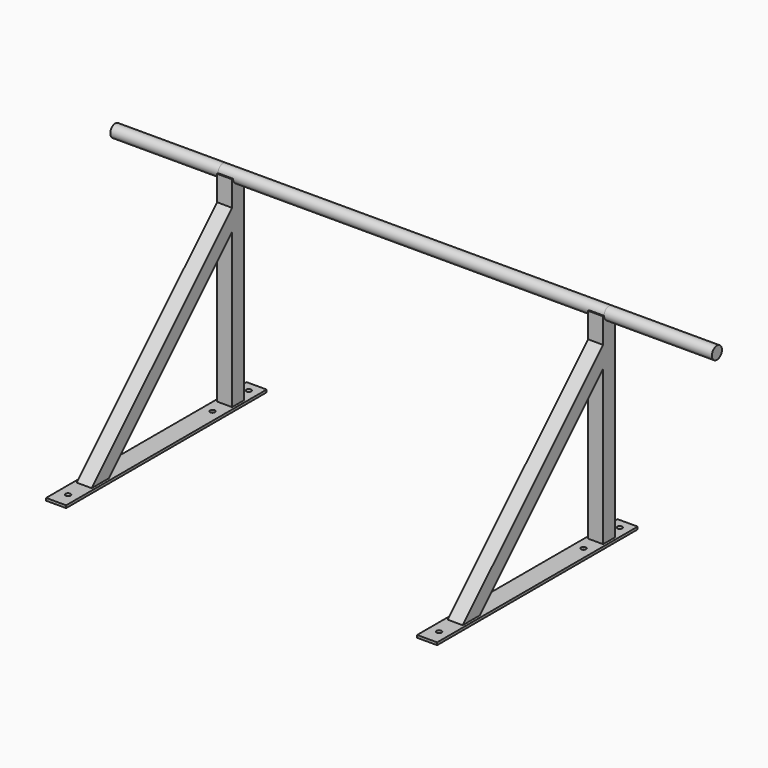
from build123d import *

# Parameters (mm, degrees)
F0_W      = 40
F0_H      = 500
F1_DEPTH  = 5
F2_W      = 30
F2_H      = 30
F3_DEPTH  = 400
F4_R      = 5
F5_DEPTH  = 25
F4_W      = 30
F4_H      = 30
F6_DEPTH  = 400
F2_R      = 5
F7_DEPTH  = 25
F9_DEPTH  = 30
F11_DEPTH = 30
F12_R     = 12.5
F13_DEPTH = 770
F14_DEPTH = 215
F15_DEPTH = 215


with BuildPart() as f1:
    # F0 (on Top) → F1 (new body)
    with BuildSketch(Plane.XY):
        with Locations((-370, 0)):
            Rectangle(F0_W, F0_H)
    extrude(amount=F1_DEPTH)

    # F2 (on face) → F3 (join)
    with BuildSketch(Plane.XY.offset(5)):
        with Locations((-370, 185)):
            Rectangle(F2_W, F2_H)
    extrude(amount=F3_DEPTH)

    # F2 (on face) → F7 (cut)
    with BuildSketch(Plane.XY.offset(5)):
        with Locations((-370, 140)):
            Circle(F2_R)
        with Locations((-370, 230)):
            Circle(F2_R)
        with Locations((-370, -220)):
            Circle(F2_R)
    extrude(amount=-F7_DEPTH, mode=Mode.SUBTRACT)

    # F8 (on face) → F9 (join)
    with BuildSketch(Plane(origin=(-385, 0, 0), x_dir=(0, -1, 0), z_dir=(-1, 0, 0))):
        Polygon((-170, 355), (-170, 312.5735931288), (137.5735931288, 5), (180, 5), align=None)
    extrude(amount=-F9_DEPTH)


with BuildPart() as f1b:
    # F0 (on Top) → F1, piece 2 (new body)
    with BuildSketch(Plane.XY):
        with Locations((370, 0)):
            Rectangle(F0_W, F0_H)
    extrude(amount=F1_DEPTH)

    # F4 (on face) → F5 (cut)
    with BuildSketch(Plane.XY.offset(5)):
        with Locations((370, 230)):
            Circle(F4_R)
        with Locations((370, 140)):
            Circle(F4_R)
        with Locations((370, -220)):
            Circle(F4_R)
    extrude(amount=-F5_DEPTH, mode=Mode.SUBTRACT)

    # F4 (on face) → F6 (join)
    with BuildSketch(Plane.XY.offset(5)):
        with Locations((370, 185)):
            Rectangle(F4_W, F4_H)
    extrude(amount=F6_DEPTH)

    # F10 (on face) → F11 (join)
    with BuildSketch(Plane.YZ.offset(385)):
        Polygon((-137.5735931288, 5), (170, 312.5735931288), (170, 355), (-180, 5), align=None)
    extrude(amount=-F11_DEPTH)


with BuildPart() as f13:
    # F12 (on face) → F13 (new body)
    with BuildSketch(Plane(origin=(-385, 0, 0), x_dir=(0, -1, 0), z_dir=(-1, 0, 0))):
        with Locations((-185, 405)):
            Circle(F12_R)
    extrude(amount=-F13_DEPTH)


with BuildPart() as f14:
    # F14 (new): a face of the model
    f14_faces = [f13.part.faces().sort_by_distance(p)[0] for p in [
        (385, 185, 405),
    ]]
    extrude(f14_faces, amount=F14_DEPTH)


with BuildPart() as f15:
    # F15 (new): a face of the model
    f15_faces = [f13.part.faces().sort_by_distance(p)[0] for p in [
        (-385, 185, 405),
    ]]
    extrude(f15_faces, amount=F15_DEPTH)


solid = Compound([f1.part, f1b.part, f13.part, f14.part, f15.part])
